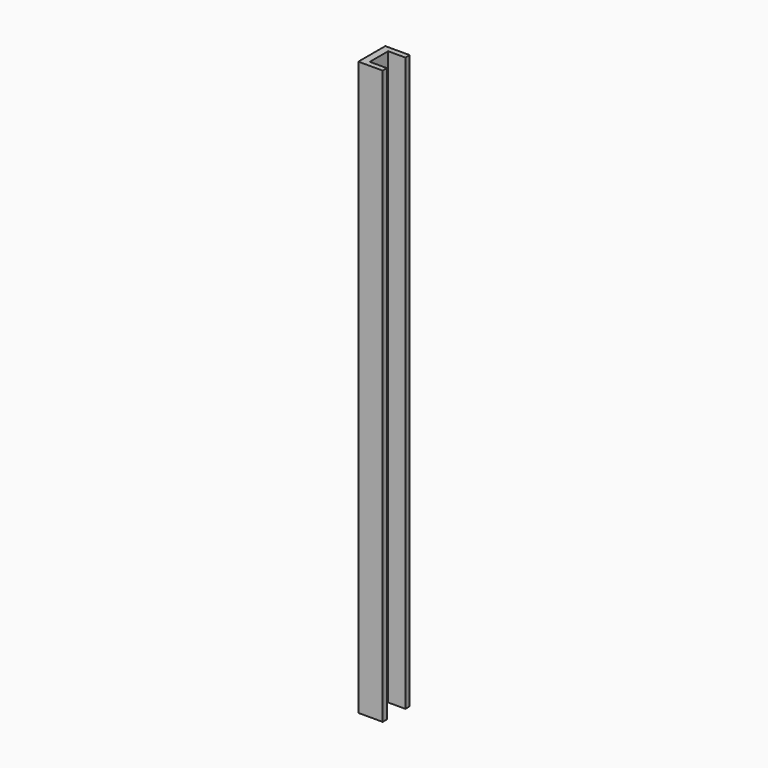
from build123d import *

# Parameters (mm, degrees)
PAD_DEPTH = 400


with BuildPart() as part:
    # Sketch → Pad (new body)
    with BuildSketch(Plane.XY):
        Polygon((0, 11.75), (0, -11.75), (17, -11.75), (17, -8), (5, -8), (5, 8), (17, 8), (17, 11.75), align=None)
    extrude(amount=PAD_DEPTH)


solid = part.part
